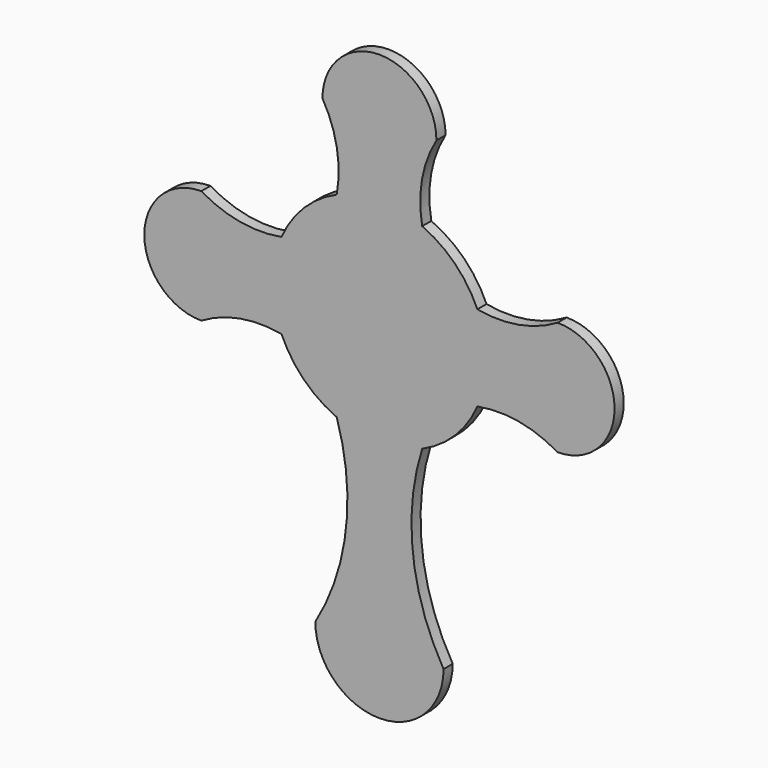
from build123d import *

# Parameters (mm, degrees)
F1_DEPTH = 1.6


with BuildPart() as f1:
    # F0 (on Front) → F1 (new body)
    with BuildSketch(Plane.XZ):
        with BuildLine():
            ThreePointArc((9, -40), (4.698597, -27.193996), (6, -13.747727))
            ThreePointArc((6, -13.747727), (10.606602, -10.606602), (13.747727, -6))
            ThreePointArc((13.747727, -6), (19.556539, -5.972241), (25, -8))
            ThreePointArc((25, -8), (33, 0), (25, 8))
            ThreePointArc((25, 8), (19.556539, 5.972241), (13.747727, 6))
            ThreePointArc((13.747727, 6), (10.606602, 10.606602), (6, 13.747727))
            ThreePointArc((6, 13.747727), (5.972241, 19.556539), (8, 25))
            ThreePointArc((8, 25), (0, 33), (-8, 25))
            ThreePointArc((-8, 25), (-5.972241, 19.556539), (-6, 13.747727))
            ThreePointArc((-6, 13.747727), (-10.606602, 10.606602), (-13.747727, 6))
            ThreePointArc((-13.747727, 6), (-19.556539, 5.972241), (-25, 8))
            ThreePointArc((-25, 8), (-33, 0), (-25, -8))
            ThreePointArc((-25, -8), (-19.556539, -5.972241), (-13.747727, -6))
            ThreePointArc((-13.747727, -6), (-10.606602, -10.606602), (-6, -13.747727))
            ThreePointArc((-6, -13.747727), (-4.698597, -27.193996), (-9, -40))
            ThreePointArc((-9, -40), (0, -49), (9, -40))
        make_face()
    extrude(amount=F1_DEPTH)


solid = f1.part
